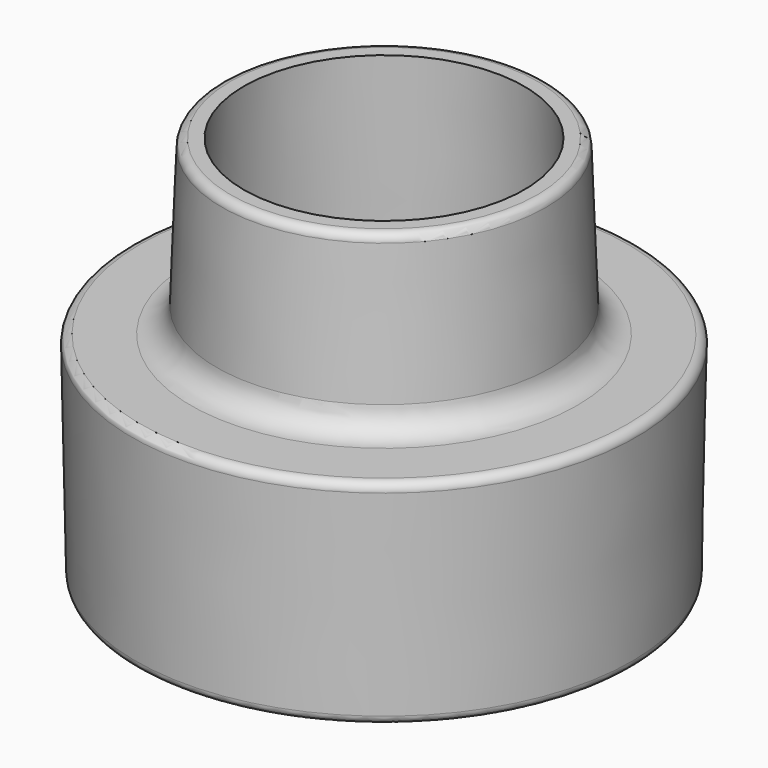
from build123d import *

# Parameters (mm, degrees)
F3_R = 3
F4_R = 1


with BuildPart() as f2:
    # F1 (on Front) → F2 (revolve)
    with BuildSketch(Plane.XZ):
        with BuildLine():
            Line((-29.25, 25), (-28.75, 0))
            Line((-28.75, 0), (-25.7506, 0.059988))
            Line((-25.7506, 0.059988), (-23.888625, 13.631131))
            ThreePointArc((-23.888625, 13.631131), (-22.745004, 17.342741), (-20.475851, 20.494701))
            Line((-20.475851, 20.494701), (-17.734198, 23.230271))
            ThreePointArc((-17.734198, 23.230271), (-17.209191, 23.998903), (-17.001756, 24.906316))
            Line((-17.001756, 24.906316), (-16.248243, 45))
            Line((-16.248243, 45), (-18.75, 45))
            Line((-18.75, 45), (-19.5, 25))
            Line((-19.5, 25), (-29.25, 25))
        make_face()
    revolve(axis=Axis((0, 0, 37.450496), (0, 0, 1)))

    # F3
    f3_edges = [f2.edges().sort_by_distance(p)[0] for p in [
        (19.5, 0, 25),
    ]]
    fillet(f3_edges, radius=F3_R)

    # F4
    f4_edges = [f2.edges().sort_by_distance(p)[0] for p in [
        (29.25, 0, 25),
        (18.75, 0, 45),
        (28.75, 0, 0),
        (25.7506, 0, 0.059988),
    ]]
    fillet(f4_edges, radius=F4_R)


solid = f2.part
